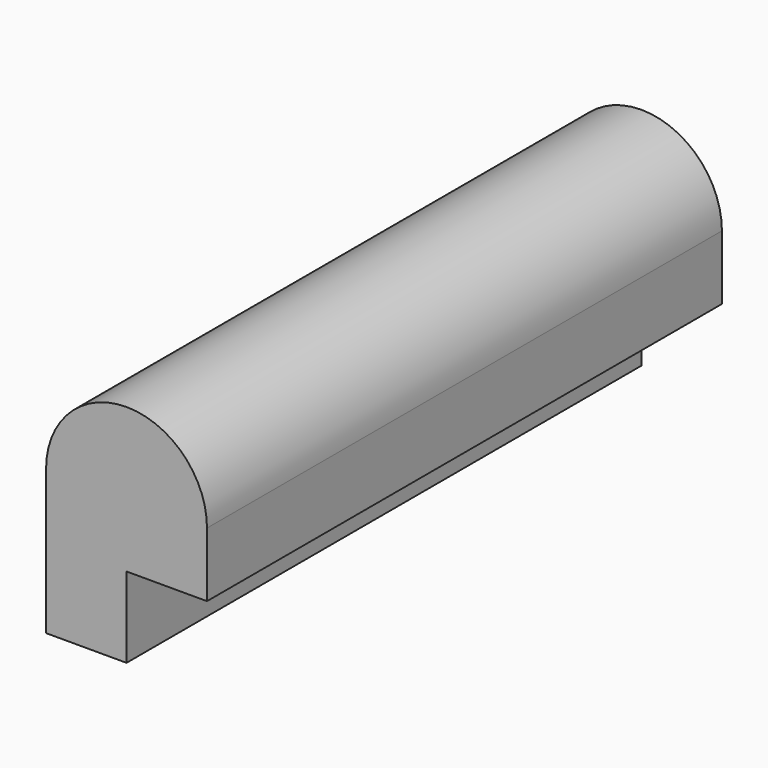
from build123d import *

# Parameters (mm, degrees)
F1_DEPTH = 120


with BuildPart() as f1:
    # F0 (on Front) → F1 (new body)
    with BuildSketch(Plane.XZ):
        Polygon((-15, 0), (0, 0), (0, 15), (15, 15), (15, 27), (-15, 27), align=None)
        with BuildLine():
            ThreePointArc((15, 27), (0, 42), (-15, 27))
            Line((-15, 27), (15, 27))
        make_face()
    extrude(amount=F1_DEPTH)


solid = f1.part
